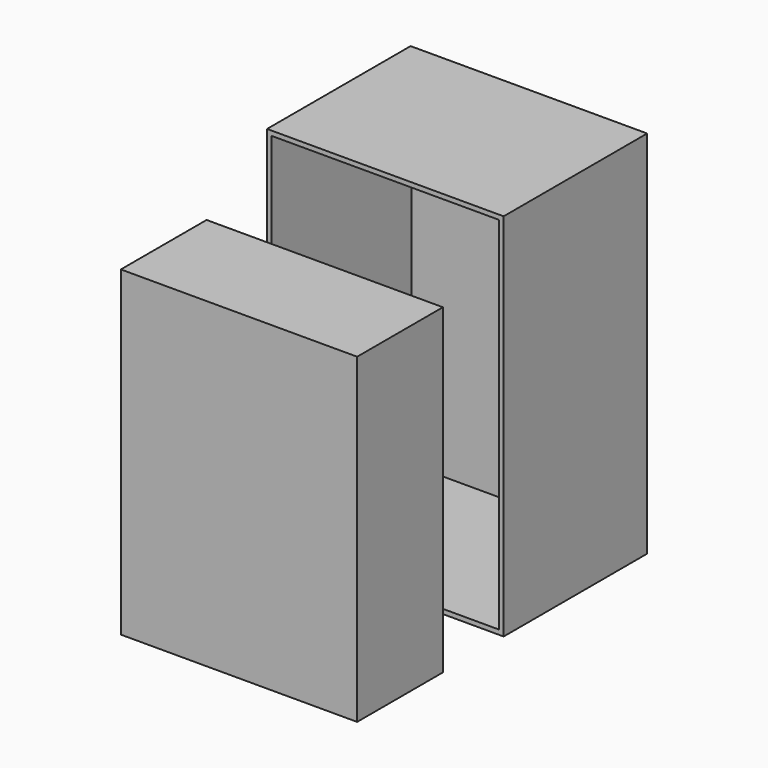
from build123d import *

# Parameters (mm, degrees)
F0_W     = 129.765436
F0_H     = 98.398015
F1_DEPTH = 202.918738
F2_T     = -2.54
F3_W     = 129.613683
F3_H     = 58.778941
F4_DEPTH = 176.346825


with BuildPart() as f1:
    # F0 (on face) → F1 (new body)
    with BuildSketch(Plane.XY):
        with Locations((27.877308, -49.199008)):
            Rectangle(F0_W, F0_H)
    extrude(amount=F1_DEPTH)

    # F2
    f2_openings = [f1.faces().sort_by_distance(p)[0] for p in [
        (27.877308, -98.398015, 101.459369),
    ]]
    offset(amount=F2_T, openings=f2_openings)


with BuildPart() as f4:
    # F3 (on Top) → F4 (new body)
    with BuildSketch(Plane.XY):
        with Locations((28.433643, -170.048744)):
            Rectangle(F3_W, F3_H)
    extrude(amount=F4_DEPTH)


solid = Compound([f1.part, f4.part])
